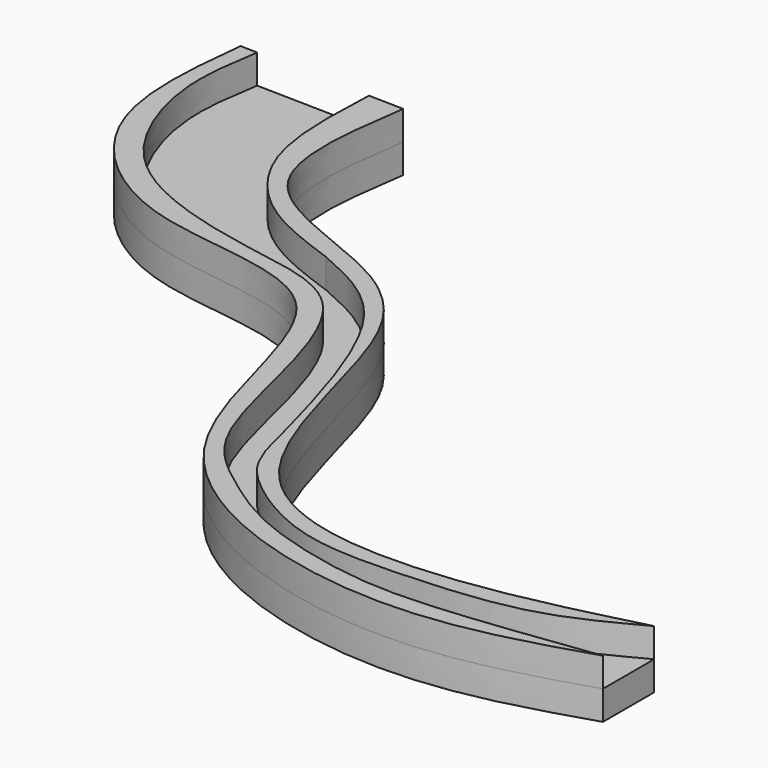
from build123d import *

# Parameters (mm, degrees)
F1_DEPTH = 5
F3_DEPTH = 5


with BuildPart() as f1:
    # F0 (on Top) → F1 (new body)
    with BuildSketch(Plane.XY):
        with BuildLine():
            Line((-44.7492748499, 64.8619160056), (-73.1359049678, 65.4723867774))
            add(Edge.make_bspline(
                [(-73.1359049678, 65.4723867774), (-74.1571804983, 56.0948020534), (-76.2108981462, 37.2370984583), (-52.7296035622, 16.1548968049), (-12.6494029149, 20.5735054654), (-13.0522116279, -36.2253831861), (40.2996718659, -53.271387436), (64.12913665, -45.7645429242), (75.2071291208, -42.2747135162)],
                knots=[0, 0, 0, 0, 0.1455901342, 0.2927721454, 0.4501121737, 0.6362062218, 0.8308772449, 1, 1, 1, 1], degree=3))
            Line((75.2071291208, -42.2747135162), (75.2071291208, -31.2863402069))
            add(Edge.make_bspline(
                [(-44.7492748499, 64.8619160056), (-46.2272223552, 54.8539720806), (-49.0952254977, 35.4332453478), (-21.9306627416, 27.7527505168), (-2.9338763718, 14.7663234015), (1.8971648844, -35.347871342), (40.7246250476, -40.2132147499), (63.4865251061, -34.3205850919), (75.2071291208, -31.2863402069)],
                knots=[0, 0, 0, 0, 0.15550098, 0.3017544924, 0.4448631765, 0.6448815128, 0.8171416641, 1, 1, 1, 1], degree=3))
        make_face()
    extrude(amount=F1_DEPTH)

    # F2 (on face) → F3 (join)
    with BuildSketch(Plane.XY.offset(5)):
        with BuildLine():
            add(Edge.make_bspline(
                [(-70.2341945629, 65.4099838299), (-71.026142482, 60.6183632709), (-72.6992523203, 50.4953846926), (-65.6152771591, 31.9869396653), (-51.2200823323, 23.7417972506), (-34.4636157491, 20.0814120568), (-15.3811869313, 17.5954670238), (-8.7812550603, -8.2781998901), (-4.5398747845, -26.2573923643), (6.1757404962, -34.5127612104), (16.0463574633, -41.2067649014), (33.9644486607, -45.7706333212), (49.0134311385, -45.7259931176), (65.7088385861, -43.5256276784), (75.2071291208, -42.2747135162)],
                knots=[0, 0, 0, 0, 0.0773601393, 0.1634435424, 0.2431216592, 0.3264703123, 0.4087909202, 0.5078904972, 0.5945494319, 0.6648368752, 0.734247841, 0.8184877668, 0.8967278663, 1, 1, 1, 1], degree=3))
            Line((-70.2341945629, 65.4099838299), (-73.1359049678, 65.4723867774))
            add(Edge.make_bspline(
                [(-73.1359049678, 65.4723867774), (-74.1571804983, 56.0948020534), (-76.2108981462, 37.2370984583), (-52.7296035622, 16.1548968049), (-12.6494029149, 20.5735054654), (-13.0522116279, -36.2253831861), (40.2996718659, -53.271387436), (64.12913665, -45.7645429242), (75.2071291208, -42.2747135162)],
                knots=[0, 0, 0, 0, 0.1455901342, 0.2927721454, 0.4501121737, 0.6362062218, 0.8308772449, 1, 1, 1, 1], degree=3))
        make_face()
        with BuildLine():
            Line((-44.7492748499, 64.8619160056), (-50.7214614819, 64.9903513066))
            add(Edge.make_bspline(
                [(-50.7214614819, 64.9903513066), (-51.0477816237, 57.7373453951), (-51.6593655449, 44.1438792622), (-41.1960964226, 30.2761312532), (-31.0658172045, 26.6779703008), (-25.9938221425, 24.8764548451)],
                knots=[0, 0, 0, 0, 0.3635389173, 0.681338747, 1, 1, 1, 1], degree=3))
            add(Edge.make_bspline(
                [(-25.9938221425, 24.8764548451), (-20.8807517357, 22.6323276979), (-7.8556796711, 16.9100857725), (-1.2383688709, -8.527861232), (2.7472344084, -23.9783929953)],
                knots=[0, 0, 0, 0, 0.3922781085, 1, 1, 1, 1], degree=3))
            add(Edge.make_bspline(
                [(2.7472344084, -23.9783929953), (3.6638319801, -26.3959807961), (5.3003899819, -30.5954732364), (20.1037596852, -40.9824333659), (37.9759468543, -40.9552864577), (59.8106840372, -39.5254268496), (69.6643569344, -34.207155381), (75.2071291208, -31.2863402069)],
                knots=[0, 0, 0, 0, 0.1332799595, 0.3379278307, 0.5551561176, 0.7883232142, 1, 1, 1, 1], degree=3))
            add(Edge.make_bspline(
                [(-44.7492748499, 64.8619160056), (-46.2272223552, 54.8539720806), (-49.0952254977, 35.4332453478), (-21.9306627416, 27.7527505168), (-2.9338763718, 14.7663234015), (1.8971648844, -35.347871342), (40.7246250476, -40.2132147499), (63.4865251061, -34.3205850919), (75.2071291208, -31.2863402069)],
                knots=[0, 0, 0, 0, 0.15550098, 0.3017544924, 0.4448631765, 0.6448815128, 0.8171416641, 1, 1, 1, 1], degree=3))
        make_face()
    extrude(amount=F3_DEPTH)


solid = f1.part
